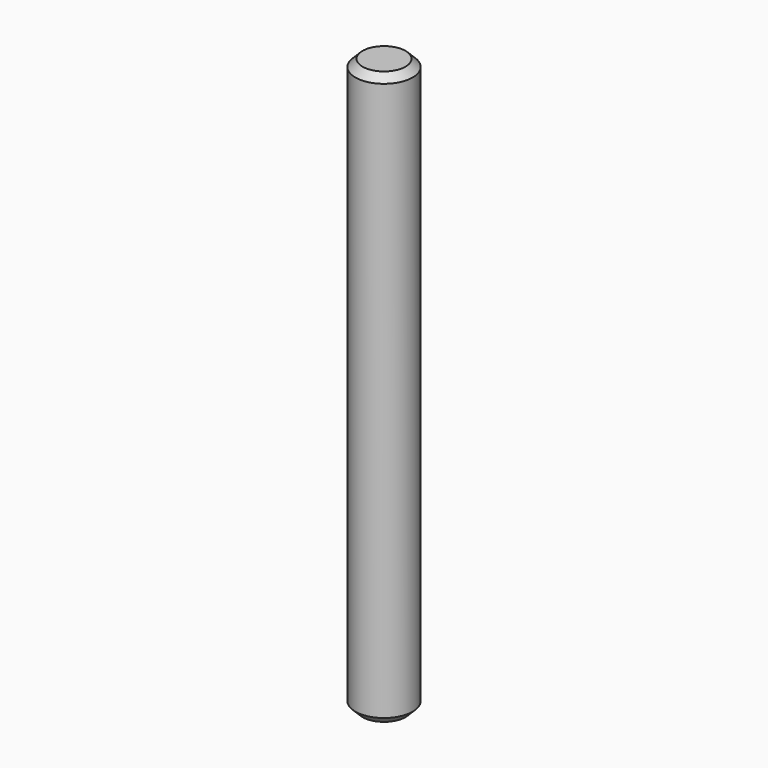
from build123d import *

# Parameters (mm, degrees)
SKETCH_R     = 2
PAD_DEPTH    = 40
CHAMFER_SIZE = 0.5


with BuildPart() as part:
    # Sketch → Pad (new body)
    with BuildSketch(Plane.XY):
        Circle(SKETCH_R)
    extrude(amount=PAD_DEPTH)

    # Chamfer
    chamfer_edges = [part.edges().sort_by_distance(p)[0] for p in [
        (-2, 0, 40),
        (-2, 0, 0),
    ]]
    chamfer(chamfer_edges, length=CHAMFER_SIZE)


solid = part.part
